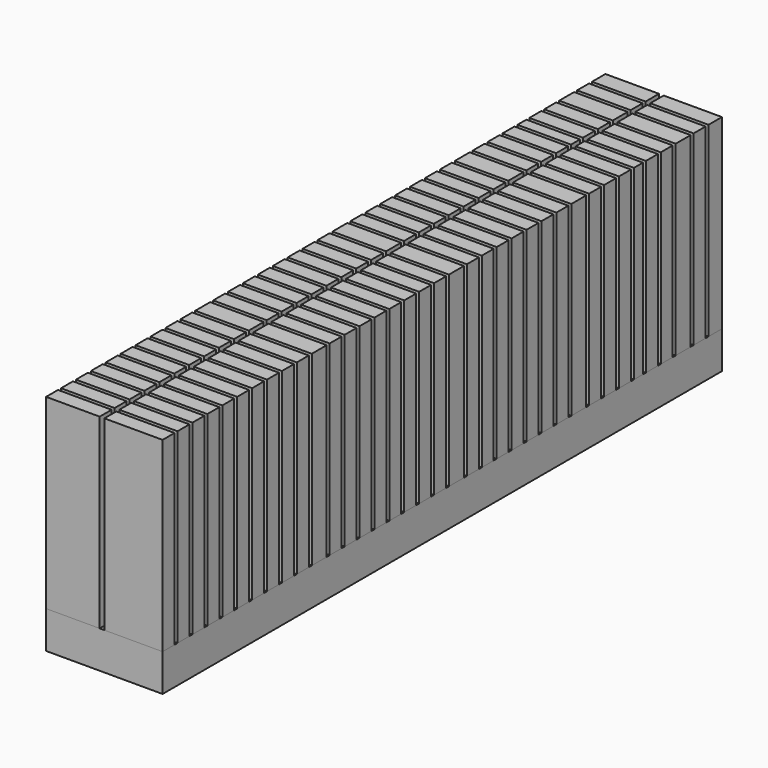
from build123d import *

# Parameters (mm, degrees)
F0_W     = 6.25
F0_H     = 1.8
F0_W_2   = 5.75
F0_H_2   = 1.6
F0_H_3   = 2
F0_H_4   = 1.2
F1_DEPTH = 20
F2_W     = 12.5
F2_H     = 75
F3_DEPTH = 4


with BuildPart() as f1:
    # F0 (on Top) → F1 (new body)
    with BuildSketch(Plane.XY):
        with Locations((3.125, 36.6)):
            Rectangle(F0_W, F0_H)
        with Locations((-3.375, 36.6)):
            Rectangle(F0_W_2, F0_H)
        with Locations((3.125, 34.5)):
            Rectangle(F0_W, F0_H_2)
        with Locations((-3.375, 34.5)):
            Rectangle(F0_W_2, F0_H_2)
        with Locations((3.125, 32.3)):
            Rectangle(F0_W, F0_H_3)
        with Locations((-3.375, 32.3)):
            Rectangle(F0_W_2, F0_H_3)
        with Locations((-3.375, 30.1)):
            Rectangle(F0_W_2, F0_H_2)
        with Locations((3.125, 30.1)):
            Rectangle(F0_W, F0_H_2)
        with Locations((3.125, 28.1)):
            Rectangle(F0_W, F0_H_2)
        with Locations((-3.375, 28.1)):
            Rectangle(F0_W_2, F0_H_2)
        with Locations((-3.375, 26.3)):
            Rectangle(F0_W_2, F0_H_4)
        with Locations((3.125, 26.3)):
            Rectangle(F0_W, F0_H_4)
        with Locations((-3.375, 24.5)):
            Rectangle(F0_W_2, F0_H_2)
        with Locations((3.125, 24.5)):
            Rectangle(F0_W, F0_H_2)
        with Locations((-3.375, 22.5)):
            Rectangle(F0_W_2, F0_H_2)
        with Locations((3.125, 22.5)):
            Rectangle(F0_W, F0_H_2)
        with Locations((-3.375, 20.5)):
            Rectangle(F0_W_2, F0_H_2)
        with Locations((3.125, 20.5)):
            Rectangle(F0_W, F0_H_2)
        with Locations((-3.375, 18.3)):
            Rectangle(F0_W_2, F0_H_3)
        with Locations((3.125, 18.3)):
            Rectangle(F0_W, F0_H_3)
        with Locations((3.125, 16.1)):
            Rectangle(F0_W, F0_H_2)
        with Locations((-3.375, 16.1)):
            Rectangle(F0_W_2, F0_H_2)
        with Locations((3.125, 14.1)):
            Rectangle(F0_W, F0_H_2)
        with Locations((-3.375, 14.1)):
            Rectangle(F0_W_2, F0_H_2)
        with Locations((-3.375, 12.1)):
            Rectangle(F0_W_2, F0_H_2)
        with Locations((3.125, 12.1)):
            Rectangle(F0_W, F0_H_2)
        with Locations((-3.375, 10.1)):
            Rectangle(F0_W_2, F0_H_2)
        with Locations((3.125, 10.1)):
            Rectangle(F0_W, F0_H_2)
        with Locations((-3.375, 8.1)):
            Rectangle(F0_W_2, F0_H_2)
        with Locations((3.125, 8.1)):
            Rectangle(F0_W, F0_H_2)
        with Locations((3.125, 6.1)):
            Rectangle(F0_W, F0_H_2)
        with Locations((-3.375, 6.1)):
            Rectangle(F0_W_2, F0_H_2)
        with Locations((-3.375, 4.1)):
            Rectangle(F0_W_2, F0_H_2)
        with Locations((3.125, 4.1)):
            Rectangle(F0_W, F0_H_2)
        with Locations((3.125, 1.9)):
            Rectangle(F0_W, F0_H_3)
        with Locations((-3.375, 1.9)):
            Rectangle(F0_W_2, F0_H_3)
        with Locations((-3.375, -0.3)):
            Rectangle(F0_W_2, F0_H_2)
        with Locations((3.125, -0.3)):
            Rectangle(F0_W, F0_H_2)
        with Locations((-3.375, -2.3)):
            Rectangle(F0_W_2, F0_H_2)
        with Locations((3.125, -2.3)):
            Rectangle(F0_W, F0_H_2)
        with Locations((-3.375, -4.3)):
            Rectangle(F0_W_2, F0_H_2)
        with Locations((3.125, -4.3)):
            Rectangle(F0_W, F0_H_2)
        with Locations((-3.375, -6.3)):
            Rectangle(F0_W_2, F0_H_2)
        with Locations((3.125, -6.3)):
            Rectangle(F0_W, F0_H_2)
        with Locations((-3.375, -8.3)):
            Rectangle(F0_W_2, F0_H_2)
        with Locations((3.125, -8.3)):
            Rectangle(F0_W, F0_H_2)
        with Locations((-3.375, -10.3)):
            Rectangle(F0_W_2, F0_H_2)
        with Locations((3.125, -10.3)):
            Rectangle(F0_W, F0_H_2)
        with Locations((-3.375, -12.3)):
            Rectangle(F0_W_2, F0_H_2)
        with Locations((3.125, -12.3)):
            Rectangle(F0_W, F0_H_2)
        with Locations((-3.375, -14.3)):
            Rectangle(F0_W_2, F0_H_2)
        with Locations((3.125, -14.3)):
            Rectangle(F0_W, F0_H_2)
        with Locations((-3.375, -16.5)):
            Rectangle(F0_W_2, F0_H_3)
        with Locations((3.125, -16.5)):
            Rectangle(F0_W, F0_H_3)
        with Locations((-3.375, -18.7)):
            Rectangle(F0_W_2, F0_H_2)
        with Locations((3.125, -18.7)):
            Rectangle(F0_W, F0_H_2)
        with Locations((-3.375, -20.7)):
            Rectangle(F0_W_2, F0_H_2)
        with Locations((3.125, -20.7)):
            Rectangle(F0_W, F0_H_2)
        with Locations((-3.375, -22.7)):
            Rectangle(F0_W_2, F0_H_2)
        with Locations((3.125, -22.7)):
            Rectangle(F0_W, F0_H_2)
        with Locations((-3.375, -24.7)):
            Rectangle(F0_W_2, F0_H_2)
        with Locations((3.125, -24.7)):
            Rectangle(F0_W, F0_H_2)
        with Locations((3.125, -26.7)):
            Rectangle(F0_W, F0_H_2)
        with Locations((-3.375, -26.7)):
            Rectangle(F0_W_2, F0_H_2)
        with Locations((-3.375, -28.7)):
            Rectangle(F0_W_2, F0_H_2)
        with Locations((3.125, -28.7)):
            Rectangle(F0_W, F0_H_2)
        with Locations((-3.375, -30.7)):
            Rectangle(F0_W_2, F0_H_2)
        with Locations((3.125, -30.7)):
            Rectangle(F0_W, F0_H_2)
        with Locations((3.125, -32.7)):
            Rectangle(F0_W, F0_H_2)
        with Locations((-3.375, -32.7)):
            Rectangle(F0_W_2, F0_H_2)
        with Locations((-3.375, -34.7)):
            Rectangle(F0_W_2, F0_H_2)
        with Locations((3.125, -34.7)):
            Rectangle(F0_W, F0_H_2)
        with Locations((3.125, -36.7)):
            Rectangle(F0_W, F0_H_2)
        with Locations((-3.375, -36.7)):
            Rectangle(F0_W_2, F0_H_2)
    extrude(amount=F1_DEPTH)


with BuildPart() as f3:
    # F2 (on Top) → F3 (new body)
    with BuildSketch(Plane.XY):
        Rectangle(F2_W, F2_H)
    extrude(amount=-F3_DEPTH)


solid = Compound([f1.part, f3.part])
